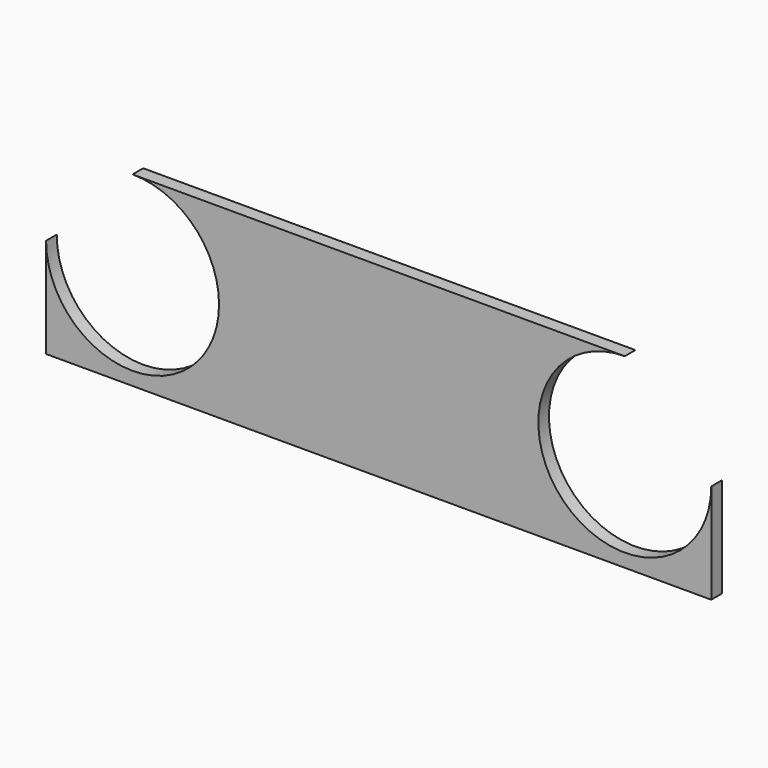
from build123d import *

# Parameters (mm, degrees)
F1_DEPTH = 10
F2_DEPTH = 25
F3_DEPTH = 25


with BuildPart() as f1:
    # F0 (on Front) → F1 (new body)
    with BuildSketch(Plane.XZ):
        with BuildLine():
            ThreePointArc((-120, 235), (-139.038059, 280.961941), (-185, 300))
            ThreePointArc((-185, 300), (-230.961941, 280.961941), (-250, 235))
            ThreePointArc((-250, 235), (-185, 170), (-120, 235))
        make_face()
        with BuildLine():
            Line((0, 300), (-185, 300))
            ThreePointArc((-185, 300), (-139.038059, 280.961941), (-120, 235))
            ThreePointArc((-120, 235), (-185, 170), (-250, 235))
            Line((-250, 235), (-250, 160))
            Line((-250, 160), (0, 160))
            Line((0, 160), (0, 300))
        make_face()
        with BuildLine():
            Line((185, 300), (0, 300))
            Line((0, 300), (0, 160))
            Line((0, 160), (250, 160))
            Line((250, 160), (250, 235))
            ThreePointArc((250, 235), (139.038059, 189.038059), (185, 300))
        make_face()
        with BuildLine():
            ThreePointArc((250, 235), (230.961941, 280.961941), (185, 300))
            ThreePointArc((185, 300), (139.038059, 189.038059), (250, 235))
        make_face()
    extrude(amount=-F1_DEPTH)

    # F0 (on Front) → F2 (cut)
    with BuildSketch(Plane.XZ):
        with BuildLine():
            ThreePointArc((-120, 235), (-139.038059, 280.961941), (-185, 300))
            ThreePointArc((-185, 300), (-230.961941, 280.961941), (-250, 235))
            ThreePointArc((-250, 235), (-185, 170), (-120, 235))
        make_face()
    extrude(amount=-F2_DEPTH, mode=Mode.SUBTRACT)

    # F0 (on Front) → F3 (cut)
    with BuildSketch(Plane.XZ):
        with BuildLine():
            ThreePointArc((250, 235), (230.961941, 280.961941), (185, 300))
            ThreePointArc((185, 300), (139.038059, 189.038059), (250, 235))
        make_face()
    extrude(amount=-F3_DEPTH, mode=Mode.SUBTRACT)


solid = f1.part
